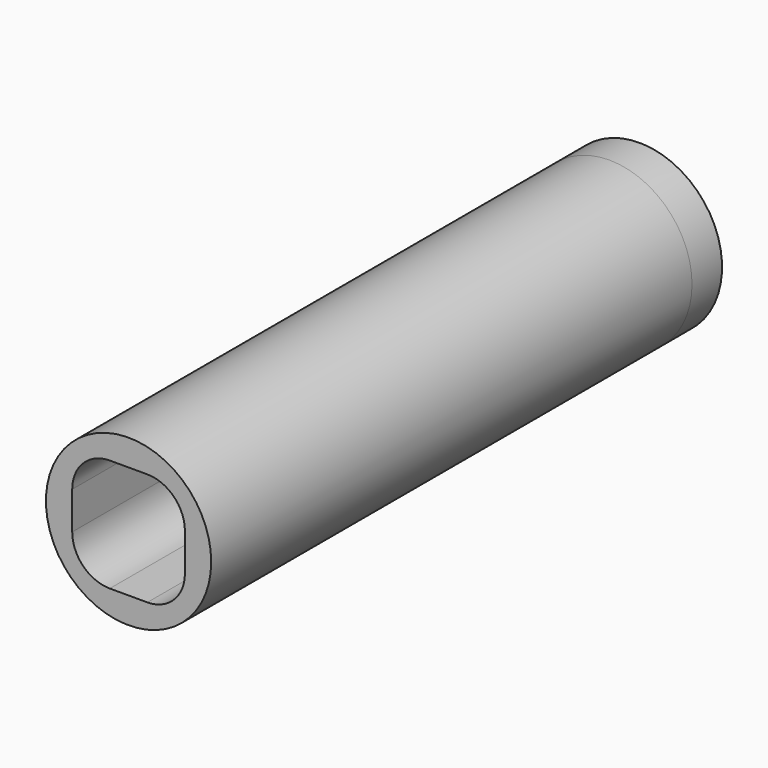
from build123d import *

# Parameters (mm, degrees)
F0_R     = 11
F1_DEPTH = 80
F2_R     = 11
F3_DEPTH = 5


with BuildPart() as f1:
    # F0 (on Front) → F1 (new body)
    with BuildSketch(Plane.XZ):
        Circle(F0_R)
        with BuildLine():
            Line((-2.5, 7.5), (2.5, 7.5))
            ThreePointArc((2.5, 7.5), (6.035534, 6.035534), (7.5, 2.5))
            Line((7.5, 2.5), (7.5, -2.5))
            ThreePointArc((7.5, -2.5), (6.035534, -6.035534), (2.5, -7.5))
            Line((2.5, -7.5), (-2.5, -7.5))
            ThreePointArc((-2.5, -7.5), (-6.035534, -6.035534), (-7.5, -2.5))
            Line((-7.5, -2.5), (-7.5, 2.5))
            ThreePointArc((-7.5, 2.5), (-6.035534, 6.035534), (-2.5, 7.5))
        make_face(mode=Mode.SUBTRACT)
    extrude(amount=F1_DEPTH)

    # F2 (on face) → F3 (join)
    with BuildSketch(Plane(origin=(0, 0, 0), x_dir=(-1, 0, 0), z_dir=(0, 1, 0))):
        Circle(F2_R)
    extrude(amount=F3_DEPTH)


solid = f1.part
